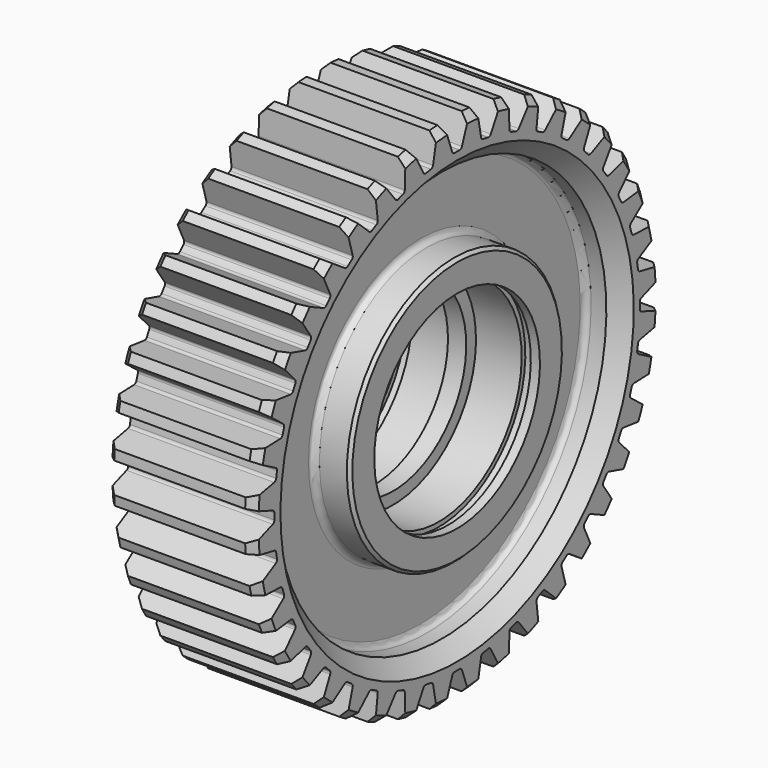
from build123d import *

# Parameters (mm, degrees)
F3_DEPTH = 25
F4_COUNT = 40
F4_ANGLE = 351
F5_SIZE  = 5
F6_SIZE  = 1


with BuildPart() as f1:
    # F0 (on Front) → F1 (revolve)
    with BuildSketch(Plane.XZ):
        with BuildLine():
            Line((24, 84), (0, 84))
            Line((0, 84), (-24, 84))
            Line((-24, 84), (-24, 67.5))
            Line((-24, 67.5), (-14, 67.5))
            ThreePointArc((-14, 67.5), (-12.5857864376, 66.9142135624), (-12, 65.5))
            Line((-12, 65.5), (-12, 46))
            ThreePointArc((-12, 46), (-12.5857864376, 44.5857864376), (-14, 44))
            Line((-14, 44), (-24, 44))
            Line((-24, 44), (-24, 34))
            Line((-24, 34), (-21, 34))
            Line((-21, 34), (-21, 35.5))
            Line((-21, 35.5), (-18, 35.5))
            Line((-18, 35.5), (-18, 34))
            Line((-18, 34), (-3, 34))
            Line((-3, 34), (-3, 30))
            Line((-3, 30), (0, 30))
            Line((0, 30), (3, 30))
            Line((3, 30), (3, 34))
            Line((3, 34), (18, 34))
            Line((18, 34), (18, 35.5))
            Line((18, 35.5), (21, 35.5))
            Line((21, 35.5), (21, 34))
            Line((21, 34), (24, 34))
            Line((24, 34), (24, 44))
            Line((24, 44), (14, 44))
            ThreePointArc((14, 44), (12.5857864376, 44.5857864376), (12, 46))
            Line((12, 46), (12, 65.5))
            ThreePointArc((12, 65.5), (12.5857864376, 66.9142135624), (14, 67.5))
            Line((14, 67.5), (24, 67.5))
            Line((24, 67.5), (24, 84))
        make_face()
    revolve(axis=Axis((-12, 0, 0), (1, 0, 0)))

    # F2 (on Right) → F3 (cut, symmetric)
    with BuildSketch(Plane.YZ):
        with BuildLine():
            ThreePointArc((-1.0412874443, 74.9927711213), (0, 75), (1.0412874443, 74.9927711213))
            ThreePointArc((1.0412874443, 74.9927711213), (1.6230472701, 75.1695606152), (1.9948638977, 75.650654593))
            Line((1.9948638977, 75.650654593), (4.98, 83.8522486282))
            ThreePointArc((4.98, 83.8522486282), (0, 84), (-4.98, 83.8522486282))
            Line((-4.98, 83.8522486282), (-1.9948638977, 75.650654593))
            ThreePointArc((-1.9948638977, 75.650654593), (-1.6230472701, 75.1695606152), (-1.0412874443, 74.9927711213))
        make_face()
    f3 = extrude(amount=F3_DEPTH, both=True, mode=Mode.SUBTRACT)

    # F4: F3 ×40 about axis
    f4_axis = Axis((24, 0, 0), (-1, 0, 0))
    for i in range(1, F4_COUNT):
        add(f3.rotate(f4_axis, i * F4_ANGLE / (F4_COUNT - 1)), mode=Mode.SUBTRACT)

    # F5
    f5_edges = [f1.edges().sort_by_distance(p)[0] for p in [
        (24, 0, -67.5),
        (-24, 0, -67.5),
    ]]
    chamfer(f5_edges, length=F5_SIZE)

    # F6
    f6_edges = [f1.edges().sort_by_distance(p)[0] for p in [
        (-24, 0, -44),
        (24, 0, -44),
    ]]
    chamfer(f6_edges, length=F6_SIZE)


with BuildPart() as f8:
    # F7 (on Front) → F8 (revolve)
    with BuildSketch(Plane.XZ):
        Polygon((-17, 88.4948000312), (17, 88.4948000312), (28.4808237398, 77.0139762914), (28.4808237398, 104.5535106398), (-28.6568468511, 104.5535106398), (-28.6568468511, 76.8379531801), align=None)
    revolve(axis=Axis((-12, 0, 0), (1, 0, 0)))


with BuildPart() as f1_1:
    add(f1.part)

    # F9: cut F8
    add(f8.part, mode=Mode.SUBTRACT)


solid = f1_1.part
